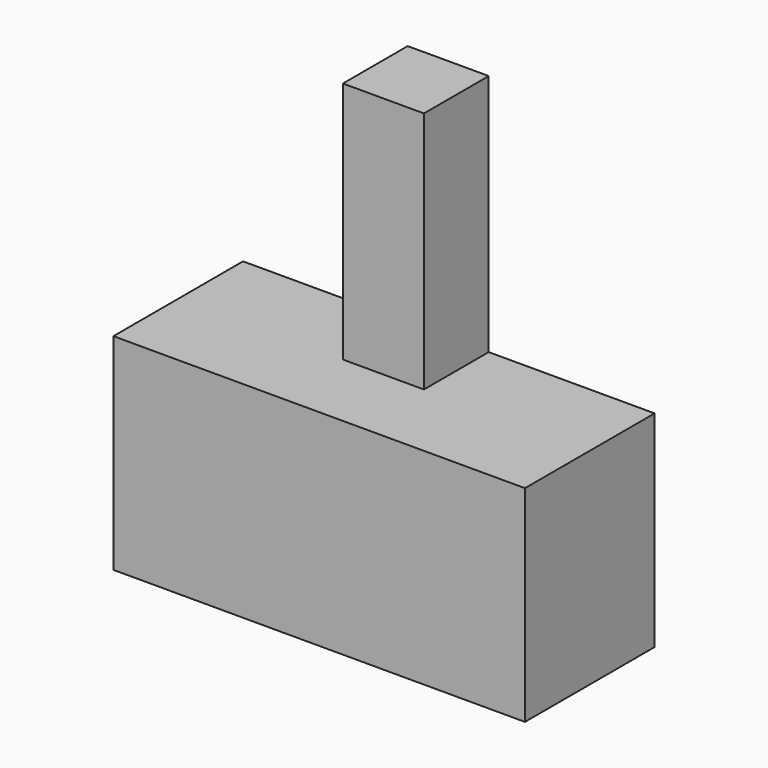
from build123d import *

# Parameters (mm, degrees)
F0_W     = 50.8
F0_H     = 50.8
F1_DEPTH = 20
F3_DEPTH = 25.4
F4_W     = 10
F4_H     = 10
F5_DEPTH = 30


with BuildPart() as f1:
    # F0 (on Front) → F1 (new body)
    with BuildSketch(Plane.XZ):
        with Locations((-25.4, 25.4)):
            Rectangle(F0_W, F0_H)
    extrude(amount=F1_DEPTH)

    # F3 (cut): a face of the model
    f3_faces = [f1.faces().sort_by_distance(p)[0] for p in [
        (-25.4, -10, 0),
    ]]
    extrude(f3_faces, amount=-F3_DEPTH, mode=Mode.SUBTRACT)

    # F4 (on face) → F5 (join)
    with BuildSketch(Plane.XY.offset(50.8)):
        with Locations((-25.4721167684, -5)):
            Rectangle(F4_W, F4_H)
    extrude(amount=F5_DEPTH)


solid = f1.part
